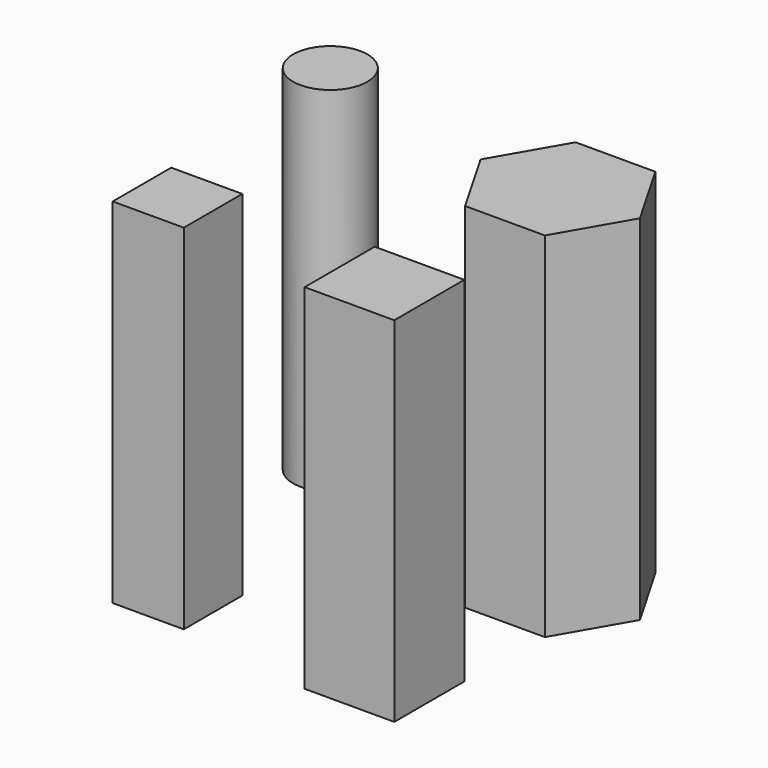
from build123d import *

# Parameters (mm, degrees)
F0_R     = 13.340121
F0_W     = 32.188997
F0_H     = 31.449016
F0_W_2   = 25.529202
F0_H_2   = 26.269181
F1_DEPTH = 127


with BuildPart() as f1:
    # F0 (on Top) → F1 (new body)
    with BuildSketch(Plane.XY):
        with Locations((-60.308114, 54.11081)):
            Circle(F0_R)
        with Locations((33.298961, -38.571294)):
            Rectangle(F0_W, F0_H)
        with Locations((-44.583606, -34.131434)):
            Rectangle(F0_W_2, F0_H_2)
        Polygon((50.200943, 61.880566), (21.576811, 61.880566), (7.264745, 37.091341), (21.576811, 12.302116), (50.200943, 12.302116), (64.513009, 37.091341), align=None)
    extrude(amount=F1_DEPTH)


solid = f1.part
